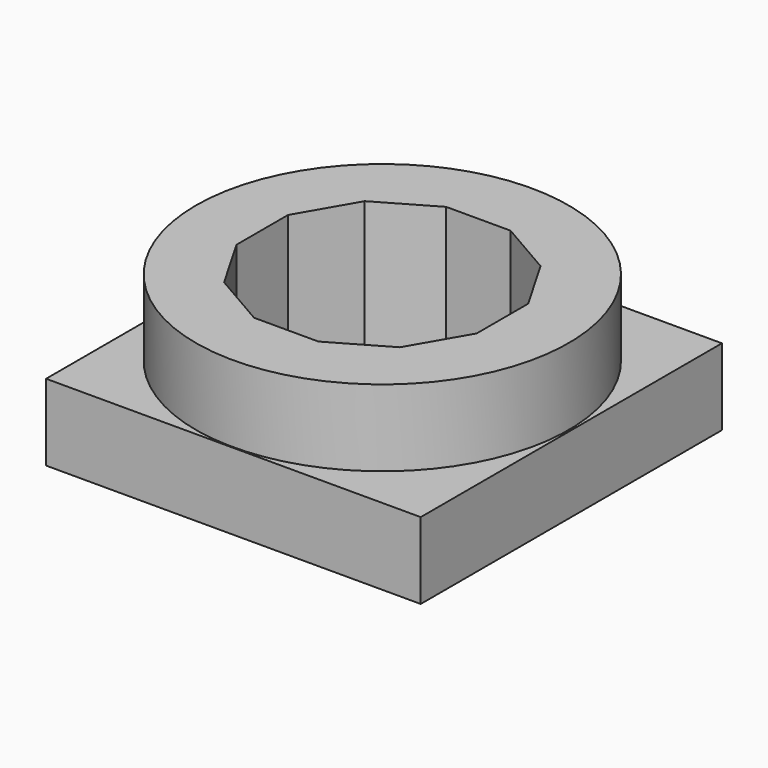
from build123d import *

# Parameters (mm, degrees)
F1_DEPTH = 25.4
F2_DEPTH = 12.7


with BuildPart() as f1:
    # F0 (on Top) → F1 (new body)
    with BuildSketch(Plane.XY):
        with BuildLine():
            ThreePointArc((30.951645, 0), (0, 30.951645), (-30.951645, 0))
            ThreePointArc((-30.951645, 0), (0, -30.951645), (30.951645, 0))
        make_face()
        Polygon((-14.598064, -14.598064), (-19.941326, -5.343262), (-19.941326, 5.343262), (-14.598064, 14.598064), (-5.343262, 19.941326), (5.343262, 19.941326), (14.598064, 14.598064), (19.941326, 5.343262), (19.941326, -5.343262), (14.598064, -14.598064), (5.343262, -19.941326), (-5.343262, -19.941326), align=None, mode=Mode.SUBTRACT)
    extrude(amount=F1_DEPTH)

    # F0 (on Top) → F2 (join)
    with BuildSketch(Plane.XY):
        Polygon((31.261161, 31.415917), (-30.951645, 31.415917), (-30.951645, 0), (-30.951645, -31.106403), (31.261161, -31.106403), align=None)
        with BuildLine():
            ThreePointArc((30.951645, 0), (0, -30.951645), (-30.951645, 0))
            ThreePointArc((-30.951645, 0), (0, 30.951645), (30.951645, 0))
        make_face(mode=Mode.SUBTRACT)
    extrude(amount=F2_DEPTH)


solid = f1.part
